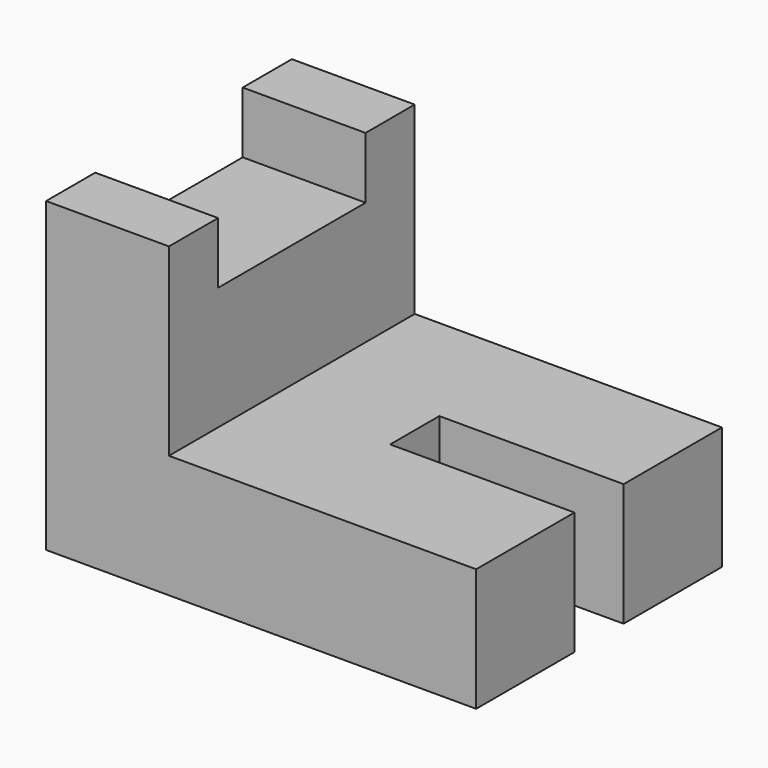
from build123d import *

# Parameters (mm, degrees)
F1_DEPTH = 31.75
F2_W     = 19.05
F2_H     = 6.35
F3_DEPTH = 12.7
F4_W     = 19.05
F4_H     = 6.35
F5_DEPTH = 12.7


with BuildPart() as f1:
    # F0 (on Front) → F1 (new body)
    with BuildSketch(Plane.XZ):
        Polygon((-14.398706, 21.225783), (-27.098706, 21.225783), (-27.098706, -10.524217), (17.351294, -10.524217), (17.351294, 2.175783), (-14.398706, 2.175783), align=None)
    extrude(amount=F1_DEPTH)

    # F2 (on face) → F3 (cut)
    with BuildSketch(Plane.XY.offset(2.175783)):
        with Locations((7.826294, -15.875)):
            Rectangle(F2_W, F2_H)
    extrude(amount=-F3_DEPTH, mode=Mode.SUBTRACT)

    # F4 (on face) → F5 (cut)
    with BuildSketch(Plane.YZ.offset(-14.398706)):
        with Locations((-15.875, 18.050783)):
            Rectangle(F4_W, F4_H)
    extrude(amount=-F5_DEPTH, mode=Mode.SUBTRACT)


solid = f1.part
